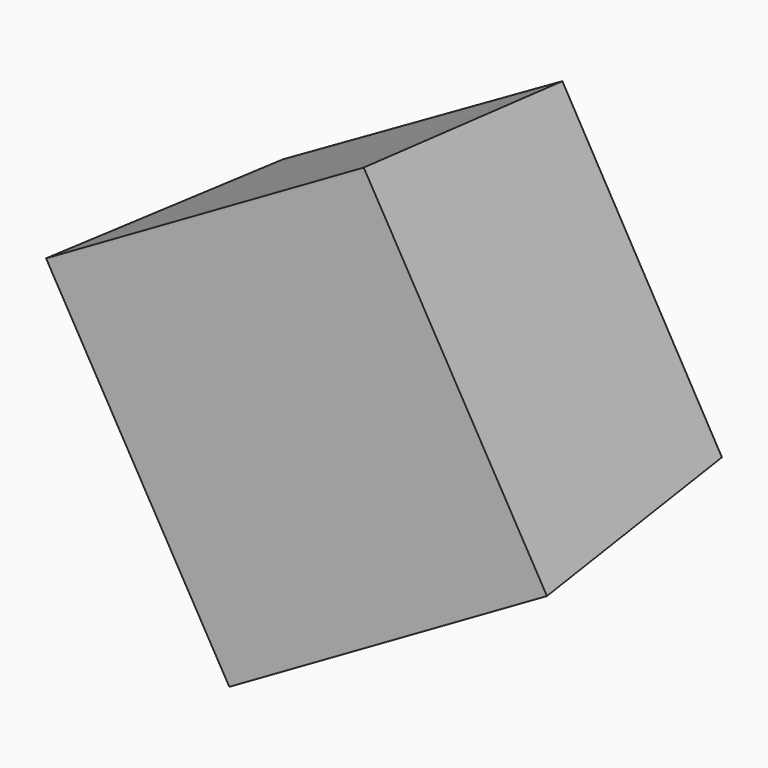
from build123d import *


with BuildPart() as f3:
    # F2 (on offset) → F3 section 0
    with BuildSketch(Plane.XZ.offset(50)):
        Polygon((13.053279, 48.627052), (-48.627052, 13.053279), (-13.053279, -48.627052), (48.627052, -13.053279), align=None)
    # F0 (on Front) → F3 section 1
    with BuildSketch(Plane.XZ):
        Polygon((11.618853, 42.602461), (-42.602461, 11.618853), (-11.618853, -42.602461), (42.602461, -11.618853), align=None)
    loft()


solid = f3.part
